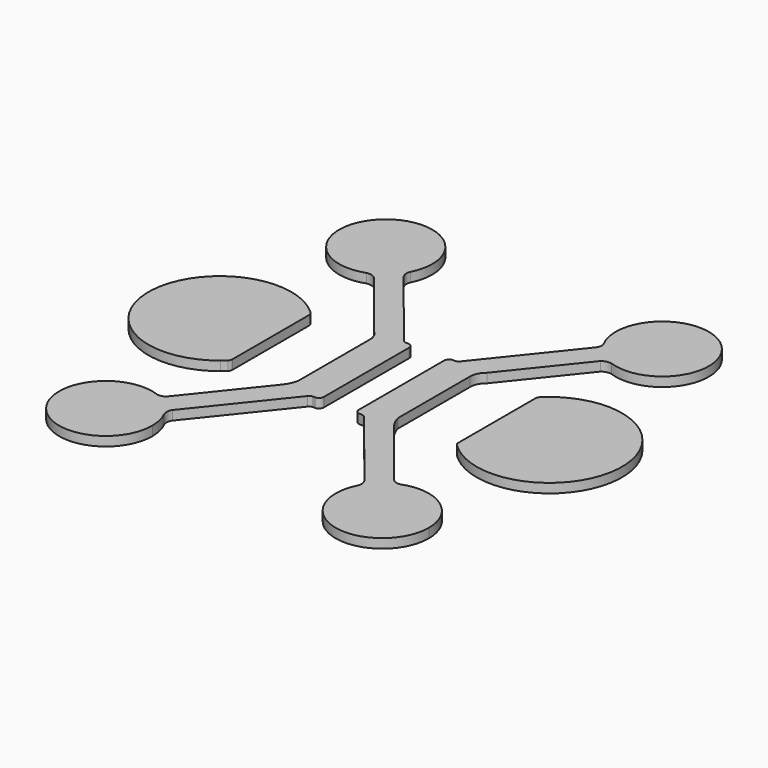
from build123d import *

# Parameters (mm, degrees)
F1_DEPTH = 0.4


with BuildPart() as f1:
    # F0 (on Top) → F1 (new body)
    with BuildSketch(Plane.XY):
        with BuildLine():
            Line((-23.951034, 30), (-24.039625, 30))
            ThreePointArc((-24.039625, 30), (-24.188383, 29.938383), (-24.25, 29.789625))
            Line((-24.25, 29.789625), (-24.25, 28.186315))
            Line((-24.25, 28.186315), (-24.25, 28.012378))
            Line((-24.25, 28.012378), (-24.25, 27.5))
            Line((-24.25, 27.5), (-24.25, 26.987622))
            Line((-24.25, 26.987622), (-24.25, 26.813685))
            Line((-24.25, 26.813685), (-24.25, 25.210375))
            ThreePointArc((-24.25, 25.210375), (-24.188383, 25.061617), (-24.039625, 25))
            Line((-24.039625, 25), (-23.951034, 25))
            ThreePointArc((-23.951034, 25), (-23.859959, 24.979264), (-23.786837, 24.921143))
            Line((-23.786837, 24.921143), (-20.880492, 21.29264))
            ThreePointArc((-20.880492, 21.29264), (-20.811469, 21.091056), (-20.850062, 20.881508))
            ThreePointArc((-20.850062, 20.881508), (-20.392678, 21.478084), (-19.747364, 21.863667))
            ThreePointArc((-19.747364, 21.863667), (-19.953732, 21.855647), (-20.132727, 21.958664))
            Line((-20.132727, 21.958664), (-22.576152, 25.009223))
            ThreePointArc((-22.576152, 25.009223), (-22.742876, 25.27058), (-22.85, 25.56149))
            Line((-22.85, 25.56149), (-22.85, 29.43851))
            ThreePointArc((-22.85, 29.43851), (-22.777779, 29.746727), (-22.576152, 29.990777))
            Line((-22.576152, 29.990777), (-20.135555, 33.037805))
            ThreePointArc((-20.135555, 33.037805), (-19.943481, 33.130813), (-19.730074, 33.13012))
            ThreePointArc((-19.730074, 33.13012), (-19.855041, 33.179154), (-19.976437, 33.23646))
            ThreePointArc((-19.976437, 33.23646), (-20.392678, 33.521916), (-20.724202, 33.902485))
            ThreePointArc((-20.724202, 33.902485), (-20.786492, 34.001656), (-20.842872, 34.104302))
            ThreePointArc((-20.842872, 34.104302), (-20.802325, 33.900264), (-20.88042, 33.707451))
            Line((-20.88042, 33.707451), (-23.786837, 30.078857))
            ThreePointArc((-23.786837, 30.078857), (-23.859959, 30.020736), (-23.951034, 30))
        make_face()
        with BuildLine():
            Line((-29.863001, 33.036003), (-27.423848, 29.990777))
            ThreePointArc((-27.423848, 29.990777), (-27.222221, 29.746727), (-27.15, 29.43851))
            Line((-27.15, 29.43851), (-27.15, 25.56149))
            ThreePointArc((-27.15, 25.56149), (-27.257124, 25.27058), (-27.423848, 25.009223))
            Line((-27.423848, 25.009223), (-29.867273, 21.958664))
            ThreePointArc((-29.867273, 21.958664), (-30.046268, 21.855647), (-30.252636, 21.863667))
            ThreePointArc((-30.252636, 21.863667), (-29.607322, 21.478084), (-29.149938, 20.881508))
            ThreePointArc((-29.149938, 20.881508), (-29.188531, 21.091056), (-29.119508, 21.29264))
            Line((-29.119508, 21.29264), (-26.213163, 24.921143))
            ThreePointArc((-26.213163, 24.921143), (-26.140041, 24.979264), (-26.048966, 25))
            Line((-26.048966, 25), (-25.960375, 25))
            ThreePointArc((-25.960375, 25), (-25.811617, 25.061617), (-25.75, 25.210375))
            Line((-25.75, 25.210375), (-25.75, 26.987622))
            Line((-25.75, 26.987622), (-25.75, 28.012378))
            Line((-25.75, 28.012378), (-25.75, 29.789625))
            ThreePointArc((-25.75, 29.789625), (-25.811617, 29.938383), (-25.960375, 30))
            Line((-25.960375, 30), (-26.048966, 30))
            ThreePointArc((-26.048966, 30), (-26.140041, 30.020736), (-26.213163, 30.078857))
            Line((-26.213163, 30.078857), (-29.103915, 33.687892))
            ThreePointArc((-29.103915, 33.687892), (-29.189698, 33.894822), (-29.151426, 34.115534))
            ThreePointArc((-29.151426, 34.115534), (-29.517746, 33.606799), (-30.023563, 33.23646))
            ThreePointArc((-30.023563, 33.23646), (-30.142952, 33.180021), (-30.265805, 33.131585))
            ThreePointArc((-30.265805, 33.131585), (-30.053194, 33.131033), (-29.863001, 33.036003))
        make_face()
        with BuildLine():
            ThreePointArc((-29.151426, 34.115534), (-32.261302, 36.514626), (-30.265805, 33.131585))
            ThreePointArc((-30.265805, 33.131585), (-30.142952, 33.180021), (-30.023563, 33.23646))
            ThreePointArc((-30.023563, 33.23646), (-29.517746, 33.606799), (-29.151426, 34.115534))
        make_face()
        with BuildLine():
            ThreePointArc((-19.730074, 33.13012), (-17.74507, 36.520228), (-20.842872, 34.104302))
            ThreePointArc((-20.842872, 34.104302), (-20.786492, 34.001656), (-20.724202, 33.902485))
            ThreePointArc((-20.724202, 33.902485), (-20.392678, 33.521916), (-19.976437, 33.23646))
            ThreePointArc((-19.976437, 33.23646), (-19.855041, 33.179154), (-19.730074, 33.13012))
        make_face()
        with BuildLine():
            ThreePointArc((-19.900965, 25.102336), (-14.772092, 27.489052), (-19.895844, 29.886743))
            ThreePointArc((-19.895844, 29.886743), (-19.991897, 29.803022), (-20.084453, 29.71545))
            ThreePointArc((-20.084453, 29.71545), (-20.130847, 29.646829), (-20.147154, 29.565618))
            Line((-20.147154, 29.565618), (-20.147154, 25.419169))
            ThreePointArc((-20.147154, 25.419169), (-20.130847, 25.337957), (-20.084453, 25.269336))
            ThreePointArc((-20.084453, 25.269336), (-19.994369, 25.184012), (-19.900965, 25.102336))
        make_face()
        with BuildLine():
            ThreePointArc((-19.747364, 21.863667), (-20.392678, 21.478084), (-20.850062, 20.881508))
            ThreePointArc((-20.850062, 20.881508), (-19.523305, 18.038422), (-17.06245, 19.9846))
            ThreePointArc((-17.06245, 19.9846), (-17.915678, 21.623171), (-19.747364, 21.863667))
        make_face()
        with BuildLine():
            ThreePointArc((-29.149938, 20.881508), (-29.607322, 21.478084), (-30.252636, 21.863667))
            ThreePointArc((-30.252636, 21.863667), (-32.576121, 18.837828), (-28.93755, 19.9846))
            ThreePointArc((-28.93755, 19.9846), (-28.991371, 20.445456), (-29.149938, 20.881508))
        make_face()
        with BuildLine():
            ThreePointArc((-29.914627, 29.70432), (-30.000846, 29.783725), (-30.090035, 29.859779))
            ThreePointArc((-30.090035, 29.859779), (-35.104621, 27.494006), (-30.100424, 25.106337))
            ThreePointArc((-30.100424, 25.106337), (-30.00587, 25.186432), (-29.914627, 25.270279))
            ThreePointArc((-29.914627, 25.270279), (-29.86661, 25.339634), (-29.849699, 25.422276))
            Line((-29.849699, 25.422276), (-29.849699, 29.552324))
            ThreePointArc((-29.849699, 29.552324), (-29.86661, 29.634966), (-29.914627, 29.70432))
        make_face()
    extrude(amount=F1_DEPTH)


solid = f1.part
